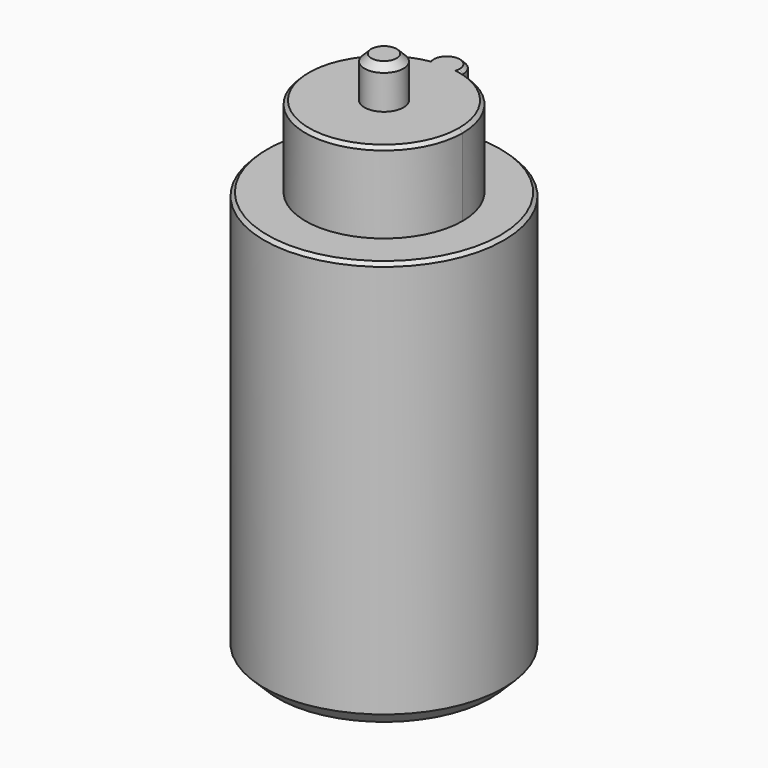
from build123d import *

# Parameters (mm, degrees)
F0_R     = 17.5
F1_DEPTH = 60
F3_DEPTH = 11.8
F4_R     = 2.85
F5_DEPTH = 6
F6_SIZE  = 1
F7_SIZE  = 0.5
F8_SIZE  = 2


with BuildPart() as f1:
    # F0 (on Top) → F1 (new body)
    with BuildSketch(Plane.XY):
        Circle(F0_R)
    extrude(amount=F1_DEPTH)

    # F2 (on face) → F3 (join)
    with BuildSketch(Plane.XY.offset(60)):
        with BuildLine():
            ThreePointArc((-2.3867830802, 11.1984716157), (-7.2032573788, -8.9003136537), (11.45, 0))
            ThreePointArc((11.45, 0), (8.9003136537, 7.2032573788), (2.3867830802, 11.1984716157))
            ThreePointArc((2.3867830802, 11.1984716157), (0, 9.05), (-2.3867830802, 11.1984716157))
        make_face()
        with BuildLine():
            ThreePointArc((-2.3867830802, 11.1984716157), (0, 9.05), (2.3867830802, 11.1984716157))
            ThreePointArc((2.3867830802, 11.1984716157), (0, 11.45), (-2.3867830802, 11.1984716157))
        make_face()
        with BuildLine():
            ThreePointArc((-2.3867830802, 11.1984716157), (0, 11.45), (2.3867830802, 11.1984716157))
            ThreePointArc((2.3867830802, 11.1984716157), (2.3966934923, 11.324062302), (2.4, 11.45))
            ThreePointArc((2.4, 11.45), (-0.125937698, 13.8466934923), (-2.3867830802, 11.1984716157))
        make_face()
    extrude(amount=F3_DEPTH)

    # F4 (on face) → F5 (join)
    with BuildSketch(Plane.XY.offset(71.8)):
        Circle(F4_R)
    extrude(amount=F5_DEPTH)

    # F6
    f6_edges = [f1.edges().sort_by_distance(p)[0] for p in [
        (-2.85, 0, 77.8),
    ]]
    chamfer(f6_edges, length=F6_SIZE)

    # F7
    f7_edges = [f1.edges().sort_by_distance(p)[0] for p in [
        (0, -11.45, 71.8),
        (0, 13.85, 71.8),
        (-17.5, 0, 60),
    ]]
    chamfer(f7_edges, length=F7_SIZE)

    # F8
    f8_edges = [f1.edges().sort_by_distance(p)[0] for p in [
        (-17.5, 0, 0),
    ]]
    chamfer(f8_edges, length=F8_SIZE)


solid = f1.part
